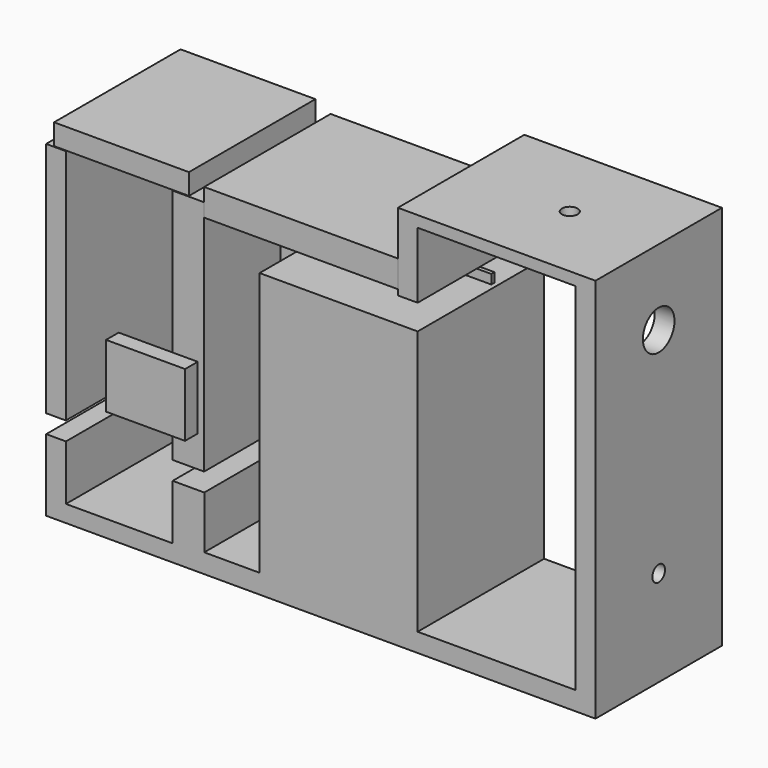
from build123d import *

# Parameters (mm, degrees)
F0_W      = 6.35
F0_H      = 76.2
F0_W_2    = 10.16
F1_DEPTH  = 25.4
F2_R      = 6.35
F3_DEPTH  = 6.35
F4_R      = 2.54
F5_DEPTH  = 6.35
F6_R      = 2.54
F7_DEPTH  = 3.8128
F8_W      = 62.267351
F8_H      = 8.679109
F9_DEPTH  = 25.4
F10_W     = 43.346244
F10_H     = 6.730783
F11_DEPTH = 25.4
F12_W     = 5.08
F12_H     = 20.32
F13_DEPTH = 25.4
F15_DEPTH = 1.27


with BuildPart() as f1:
    # F0 (on Front) → F1 (new body, symmetric)
    with BuildSketch(Plane.XZ):
        with Locations((-55.907167, -1.775375)):
            Rectangle(F0_W, F0_H)
        with Locations((-13.362167, -1.775375)):
            Rectangle(F0_W_2, F0_H)
        Polygon((-52.694816, -45.781121), (-59.044816, -45.781121), (-59.044816, -68.885617), (-8.244816, -68.885617), (60.335184, -68.885617), (117.485184, -68.885617), (117.485184, 55.023091), (53.985184, 55.023091), (53.985184, 30.208889), (60.335184, 30.208889), (60.335184, 51.429289), (111.135184, 51.429289), (111.135184, 21.678317), (111.135184, -62.870711), (60.335184, -62.870711), (60.335184, 22.094239), (9.535184, 22.094239), (9.535184, -62.708311), (-8.244816, -62.708311), (-8.244816, -45.781121), (-18.404816, -45.781121), (-18.404816, -63.466042), (-52.694816, -63.466042), align=None)
    extrude(amount=F1_DEPTH, both=True)

    # F2 (on face) → F3 (cut)
    with BuildSketch(Plane.YZ.offset(117.485184)):
        with Locations((0, 30.746773)):
            Circle(F2_R)
    extrude(amount=-F3_DEPTH, mode=Mode.SUBTRACT)

    # F4 (on face) → F5 (cut)
    with BuildSketch(Plane.YZ.offset(117.485184)):
        with Locations((0, -38.1)):
            Circle(F4_R)
    extrude(amount=-F5_DEPTH, mode=Mode.SUBTRACT)

    # F6 (on face) → F7 (cut)
    with BuildSketch(Plane.XY.offset(55.023091)):
        with Locations((88.910184, 0)):
            Circle(F6_R)
    extrude(amount=-F7_DEPTH, mode=Mode.SUBTRACT)


with BuildPart() as f9:
    # F8 (on Front) → F9 (new body, symmetric)
    with BuildSketch(Plane.XZ):
        with Locations((22.851508, 36.324625)):
            Rectangle(F8_W, F8_H)
    extrude(amount=F9_DEPTH, both=True)


with BuildPart() as f11:
    # F10 (on Front) → F11 (new body, symmetric)
    with BuildSketch(Plane.XZ):
        with Locations((-34.843518, 39.899862)):
            Rectangle(F10_W, F10_H)
    extrude(amount=F11_DEPTH, both=True)


with BuildPart() as f13:
    # F12 (on Right) → F13 (new body)
    with BuildSketch(Plane.YZ):
        with Locations((-72.628401, 10.16)):
            Rectangle(F12_W, F12_H)
    extrude(amount=F13_DEPTH)


with BuildPart() as f15:
    # F14 (on Front) → F15 (new body)
    with BuildSketch(Plane.XZ):
        Polygon((-3.033889, 26.975267), (-3.033889, -44.82425), (3.376782, -44.82425), (3.376782, 26.975267), (64.705536, 26.975267), (64.705536, 29.966915), (-3.033889, 29.966915), align=None)
    extrude(amount=F15_DEPTH)


solid = Compound([f1.part, f9.part, f11.part, f13.part, f15.part])
